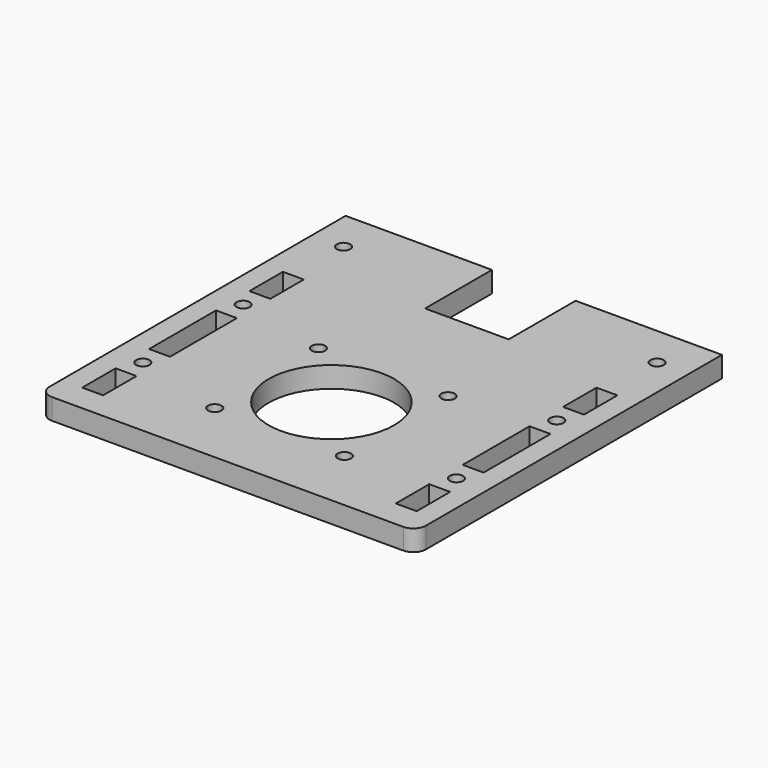
from build123d import *

# Parameters (mm, degrees)
F1_W     = 5
F1_H     = 10
F1_R     = 1.6
F1_H_2   = 20
F1_R_2   = 15
F2_DEPTH = 5


with BuildPart() as f2:
    # F1 (on Top) → F2 (new body)
    with BuildSketch(Plane.XY):
        with BuildLine():
            Line((0, -20), (0, 0))
            Line((0, 0), (-35, 0))
            Line((-35, 0), (-35, -88.5))
            ThreePointArc((-35, -88.5), (-34.1213203436, -90.6213203436), (-32, -91.5))
            Line((-32, -91.5), (52, -91.5))
            ThreePointArc((52, -91.5), (54.1213203436, -90.6213203436), (55, -88.5))
            Line((55, -88.5), (55, 0))
            Line((55, 0), (20, 0))
            Line((20, 0), (20, -20))
            Line((20, -20), (0, -20))
        make_face()
        with Locations((-27.5, -80)):
            Rectangle(F1_W, F1_H, mode=Mode.SUBTRACT)
        with Locations((-27.5, -70)):
            Circle(F1_R, mode=Mode.SUBTRACT)
        with Locations((-5.5, -76)):
            Circle(F1_R, mode=Mode.SUBTRACT)
        with Locations((-27.5, -55)):
            Rectangle(F1_W, F1_H_2, mode=Mode.SUBTRACT)
        with Locations((25.5, -76)):
            Circle(F1_R, mode=Mode.SUBTRACT)
        with Locations((47.5, -80)):
            Rectangle(F1_W, F1_H, mode=Mode.SUBTRACT)
        with Locations((47.5, -70)):
            Circle(F1_R, mode=Mode.SUBTRACT)
        with Locations((10, -60.5)):
            Circle(F1_R_2, mode=Mode.SUBTRACT)
        with Locations((47.5, -55)):
            Rectangle(F1_W, F1_H_2, mode=Mode.SUBTRACT)
        with Locations((-27.5, -40)):
            Circle(F1_R, mode=Mode.SUBTRACT)
        with Locations((-27.5, -30)):
            Rectangle(F1_W, F1_H, mode=Mode.SUBTRACT)
        with Locations((-5.5, -45)):
            Circle(F1_R, mode=Mode.SUBTRACT)
        with Locations((-27.5, -10)):
            Circle(F1_R, mode=Mode.SUBTRACT)
        with Locations((25.5, -45)):
            Circle(F1_R, mode=Mode.SUBTRACT)
        with Locations((47.5, -40)):
            Circle(F1_R, mode=Mode.SUBTRACT)
        with Locations((47.5, -30)):
            Rectangle(F1_W, F1_H, mode=Mode.SUBTRACT)
        with Locations((47.5, -10)):
            Circle(F1_R, mode=Mode.SUBTRACT)
    extrude(amount=F2_DEPTH)


solid = f2.part
